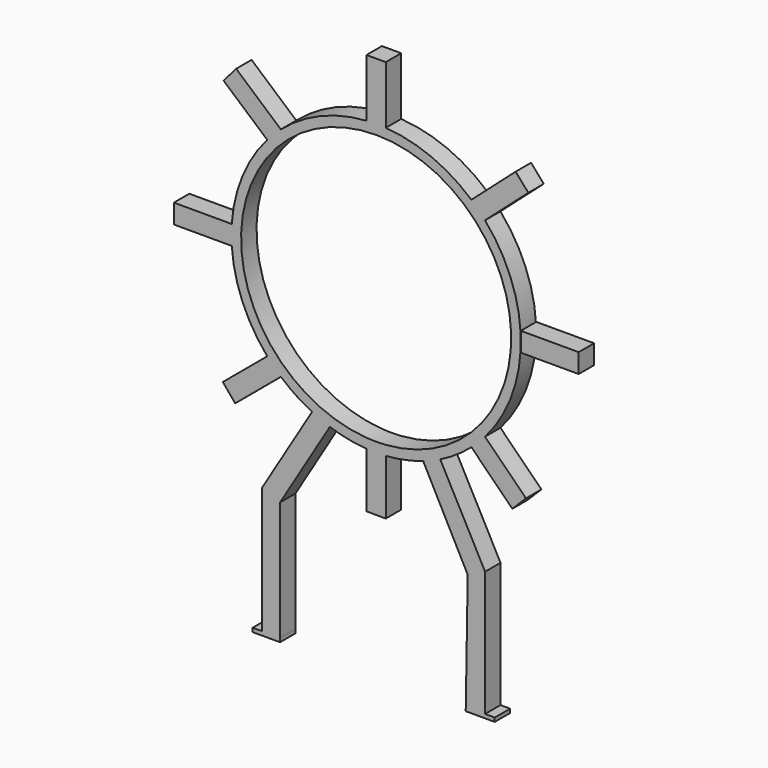
from build123d import *

# Parameters (mm, degrees)
F0_W     = 12.7
F0_H     = 5.08
F1_DEPTH = 12.7


with BuildPart() as f1:
    # F0 (on Front) → F1 (new body, symmetric)
    with BuildSketch(Plane.XZ):
        with BuildLine():
            ThreePointArc((143.3936314576, -125.41338229), (178.3349892655, -66.9841892066), (190.5, 0))
            ThreePointArc((190.5, 0), (178.3300705431, 66.99728308), (143.3752132273, 125.4344379827))
            Line((143.3752132273, 125.4344379827), (125.4240303362, 143.3843178811))
            ThreePointArc((125.4240303362, 143.3843178811), (72.9012674245, 175.9990204743), (12.7, 190.0761952481))
            Line((12.7, 190.0761952481), (-12.7, 190.0761952481))
            ThreePointArc((-12.7, 190.0761952481), (-72.9076550825, 175.9963744808), (-125.4344379827, 143.3752132273))
            ThreePointArc((-125.4344379827, 143.3752132273), (-134.7087306667, 134.698952788), (-143.3843178811, 125.4240303362))
            ThreePointArc((-143.3843178811, 125.4240303362), (-175.9990204743, 72.9012674245), (-190.0761952481, 12.7))
            Line((-190.0761952481, 12.7), (-190.0761952481, -12.7))
            ThreePointArc((-190.0761952481, -12.7), (-175.9963744808, -72.9076550825), (-143.3752132273, -125.4344379827))
            ThreePointArc((-143.3752132273, -125.4344379827), (-134.698952788, -134.7087306667), (-125.4240303362, -143.3843178811))
            ThreePointArc((-125.4240303362, -143.3843178811), (-105.8127885909, -158.4105544799), (-84.4218148587, -170.772384114))
            ThreePointArc((-84.4218148587, -170.772384114), (-72.855711879, -176.0178833147), (-60.9658057355, -180.4810808119))
            ThreePointArc((-60.9658057355, -180.4810808119), (-37.1440343653, -186.8437066403), (-12.7, -190.0761952481))
            Line((-12.7, -190.0761952481), (-12.7, -177.3458485559))
            ThreePointArc((-12.7, -177.3458485559), (-121.15027858, 130.1362747277), (177.8, 0))
            ThreePointArc((177.8, 0), (130.1362747277, -121.15027858), (12.7, -177.3458485559))
            Line((12.7, -177.3458485559), (12.7, -186.6057301044))
            Line((12.7, -186.6057301044), (12.7, -190.0761952481))
            ThreePointArc((12.7, -190.0761952481), (37.662259372, -186.7399373969), (61.9662951151, -180.1400240638))
            ThreePointArc((61.9662951151, -180.1400240638), (73.3568057038, -175.8096386918), (84.4471477916, -170.759858368))
            ThreePointArc((84.4471477916, -170.759858368), (105.830287296, -158.3988645504), (125.4344379827, -143.3752132273))
            ThreePointArc((125.4344379827, -143.3752132273), (134.713731937, -134.6939509689), (143.3936314576, -125.41338229))
        make_face()
        with BuildLine():
            Line((125.4240303362, 143.3843178811), (143.3752132273, 125.4344379827))
            ThreePointArc((143.3752132273, 125.4344379827), (134.698952788, 134.7087306667), (125.4240303362, 143.3843178811))
        make_face()
        with BuildLine():
            ThreePointArc((125.4240303362, 143.3843178811), (134.698952788, 134.7087306667), (143.3752132273, 125.4344379827))
            Line((143.3752132273, 125.4344379827), (200.4383576144, 175.9343147415))
            Line((200.4383576144, 175.9343147415), (183.6454654828, 194.9097121066))
            Line((183.6454654828, 194.9097121066), (125.4240303362, 143.3843178811))
        make_face()
        with BuildLine():
            Line((197.2771237242, -179.2929634052), (143.3936314576, -125.41338229))
            ThreePointArc((143.3936314576, -125.41338229), (134.713731937, -134.6939509689), (125.4344379827, -143.3752132273))
            Line((125.4344379827, -143.3752132273), (179.3172633525, -197.2541274941))
            Line((179.3172633525, -197.2541274941), (197.2771237242, -179.2929634052))
        make_face()
        with BuildLine():
            Line((-12.7, 190.0761952481), (12.7, 190.0761952481))
            ThreePointArc((12.7, 190.0761952481), (0, 190.5), (-12.7, 190.0761952481))
        make_face()
        with BuildLine():
            ThreePointArc((-12.7, 190.0761952481), (0, 190.5), (12.7, 190.0761952481))
            Line((12.7, 190.0761952481), (12.7, 266.2761952481))
            Line((12.7, 266.2761952481), (-12.7, 266.2761952481))
            Line((-12.7, 266.2761952481), (-12.7, 190.0761952481))
        make_face()
        with BuildLine():
            Line((143.4710105798, -281.7976696205), (84.4471477916, -170.759858368))
            ThreePointArc((84.4471477916, -170.759858368), (73.3568057038, -175.8096386918), (61.9662951151, -180.1400240638))
            Line((61.9662951151, -180.1400240638), (120.5800573515, -292.8051334655))
            Line((120.5800573515, -292.8051334655), (143.4710105798, -281.7976696205))
        make_face()
        Polygon((143.4710105798, -446.7588493504), (143.4710105798, -281.7976696205), (120.5800573515, -292.8051334655), (118.0743921949, -446.3443923428), align=None)
        with BuildLine():
            ThreePointArc((-143.3843178811, 125.4240303362), (-134.7087306667, 134.698952788), (-125.4344379827, 143.3752132273))
            Line((-125.4344379827, 143.3752132273), (-184.2913867656, 194.5206768664))
            Line((-184.2913867656, 194.5206768664), (-200.9019456651, 175.4056518995))
            Line((-200.9019456651, 175.4056518995), (-143.3843178811, 125.4240303362))
        make_face()
        with BuildLine():
            Line((12.7, -262.8057301044), (12.7, -190.0761952481))
            ThreePointArc((12.7, -190.0761952481), (0, -190.5), (-12.7, -190.0761952481))
            Line((-12.7, -190.0761952481), (-12.7, -262.6625481827))
            Line((-12.7, -262.6625481827), (12.7, -262.8057301044))
        make_face()
        with BuildLine():
            ThreePointArc((-12.7, -190.0761952481), (0, -190.5), (12.7, -190.0761952481))
            Line((12.7, -190.0761952481), (12.7, -186.6057301044))
            Line((12.7, -186.6057301044), (12.7, -177.3458485559))
            ThreePointArc((12.7, -177.3458485559), (0, -177.8), (-12.7, -177.3458485559))
            Line((-12.7, -177.3458485559), (-12.7, -190.0761952481))
        make_face()
        Polygon((156.1710105798, -446.7588493504), (143.4710105798, -446.7588493504), (118.0743921949, -446.3443923428), (117.920935154, -451.8388493504), (156.1710105798, -451.8388493504), align=None)
        with BuildLine():
            Line((-190.0761952481, -12.7), (-190.0761952481, 12.7))
            ThreePointArc((-190.0761952481, 12.7), (-190.5, 0), (-190.0761952481, -12.7))
        make_face()
        with BuildLine():
            ThreePointArc((-190.0761952481, -12.7), (-190.5, 0), (-190.0761952481, 12.7))
            Line((-190.0761952481, 12.7), (-266.2761952481, 12.7))
            Line((-266.2761952481, 12.7), (-266.2761952481, -12.7))
            Line((-266.2761952481, -12.7), (-190.0761952481, -12.7))
        make_face()
        with BuildLine():
            Line((-126.4661139043, -289.2869153512), (-60.9658057355, -180.4810808119))
            ThreePointArc((-60.9658057355, -180.4810808119), (-72.855711879, -176.0178833147), (-84.4218148587, -170.772384114))
            Line((-84.4218148587, -170.772384114), (-149.9343518414, -279.5708560613))
            Line((-149.9343518414, -279.5708560613), (-126.4661139043, -289.2869153512))
        make_face()
        Polygon((-126.4661139043, -446.3443923428), (-126.4661139043, -289.2869153512), (-149.9343518414, -279.5708560613), (-149.9343518414, -446.3443923428), align=None)
        with BuildLine():
            ThreePointArc((-125.4240303362, -143.3843178811), (-134.698952788, -134.7087306667), (-143.3752132273, -125.4344379827))
            Line((-143.3752132273, -125.4344379827), (-201.8747899085, -174.2631132476))
            Line((-201.8747899085, -174.2631132476), (-185.5695967745, -193.738756417))
            Line((-185.5695967745, -193.738756417), (-125.4240303362, -143.3843178811))
        make_face()
        Polygon((-126.4647518414, -451.4243923428), (-126.4661139043, -446.3443923428), (-149.9343518414, -446.3443923428), (-149.9343518414, -451.4243923428), align=None)
        with Locations((-156.2843518414, -448.8843923428)):
            Rectangle(F0_W, F0_H)
    extrude(amount=F1_DEPTH, both=True)


with BuildPart() as f1b:
    # F0 (on Front) → F1, piece 2 (new body, symmetric)
    with BuildSketch(Plane.XZ):
        Polygon((190.5, 12.7), (190.5, 0), (190.5, -12.7), (266.7, -12.7), (266.7, 12.7), align=None)
    extrude(amount=F1_DEPTH, both=True)


solid = Compound([f1.part, f1b.part])
